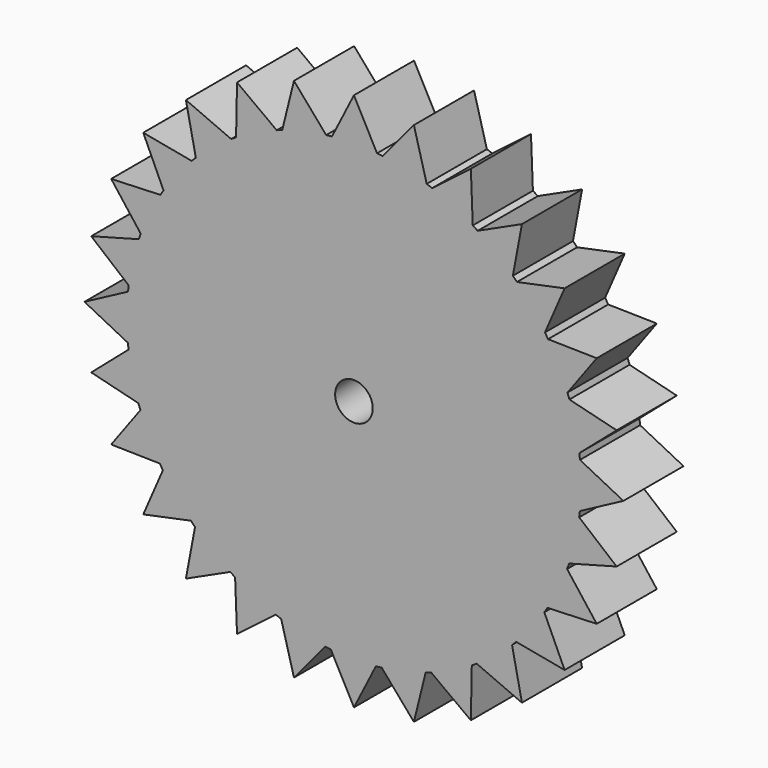
from build123d import *

# Parameters (mm, degrees)
F1_DEPTH = 12.7
F2_R     = 3.175
F3_DEPTH = 25.4


with BuildPart() as f1:
    # F0 (on Front) → F1 (new body)
    with BuildSketch(Plane.XZ):
        with BuildLine():
            ThreePointArc((38.16472, -3.90239), (38.313933, -1.95373), (38.363714, 0))
            ThreePointArc((38.363714, 0), (38.318696, 1.85798), (38.183747, 3.7116))
            ThreePointArc((38.183747, 3.7116), (38.133106, 4.200094), (38.076215, 4.6879))
            ThreePointArc((38.076215, 4.6879), (37.423071, 8.443238), (36.400492, 12.115225))
            ThreePointArc((36.400492, 12.115225), (36.24242, 12.580203), (36.078408, 13.04312))
            ThreePointArc((36.078408, 13.04312), (34.606, 16.558965), (32.791965, 19.911343))
            ThreePointArc((32.791965, 19.911343), (32.534388, 20.329489), (32.27148, 20.744303))
            ThreePointArc((32.27148, 20.744303), (30.053638, 23.844357), (27.539111, 26.709023))
            ThreePointArc((27.539111, 26.709023), (27.194947, 27.059368), (26.846325, 27.40528))
            ThreePointArc((26.846325, 27.40528), (23.994262, 29.934093), (20.905332, 32.1674))
            ThreePointArc((20.905332, 32.1674), (20.491837, 32.432378), (20.074983, 32.692041))
            ThreePointArc((20.074983, 32.692041), (16.731714, 34.522808), (13.223271, 36.01277))
            ThreePointArc((13.223271, 36.01277), (12.76118, 36.179094), (12.296998, 36.339488))
            ThreePointArc((12.296998, 36.339488), (8.630167, 37.380406), (4.878141, 38.05231))
            ThreePointArc((4.878141, 38.05231), (4.390625, 38.111638), (3.90239, 38.16472))
            ThreePointArc((3.90239, 38.16472), (0.095868, 38.363594), (-3.7116, 38.183747))
            ThreePointArc((-3.7116, 38.183747), (-4.200094, 38.133106), (-4.6879, 38.076215))
            ThreePointArc((-4.6879, 38.076215), (-8.443238, 37.423071), (-12.115225, 36.400492))
            ThreePointArc((-12.115225, 36.400492), (-12.580203, 36.24242), (-13.04312, 36.078408))
            ThreePointArc((-13.04312, 36.078408), (-16.558965, 34.606), (-19.911343, 32.791965))
            ThreePointArc((-19.911343, 32.791965), (-20.329489, 32.534388), (-20.744303, 32.27148))
            ThreePointArc((-20.744303, 32.27148), (-23.844357, 30.053638), (-26.709023, 27.539111))
            ThreePointArc((-26.709023, 27.539111), (-27.059368, 27.194947), (-27.40528, 26.846325))
            ThreePointArc((-27.40528, 26.846325), (-29.934093, 23.994262), (-32.1674, 20.905332))
            ThreePointArc((-32.1674, 20.905332), (-32.432378, 20.491837), (-32.692041, 20.074983))
            ThreePointArc((-32.692041, 20.074983), (-34.522808, 16.731714), (-36.01277, 13.223271))
            ThreePointArc((-36.01277, 13.223271), (-36.179094, 12.76118), (-36.339488, 12.296998))
            ThreePointArc((-36.339488, 12.296998), (-37.380406, 8.630167), (-38.05231, 4.878141))
            ThreePointArc((-38.05231, 4.878141), (-38.111638, 4.390625), (-38.16472, 3.90239))
            ThreePointArc((-38.16472, 3.90239), (-38.363594, 0.095868), (-38.183747, -3.7116))
            ThreePointArc((-38.183747, -3.7116), (-38.133106, -4.200094), (-38.076215, -4.6879))
            ThreePointArc((-38.076215, -4.6879), (-37.423071, -8.443238), (-36.400492, -12.115225))
            ThreePointArc((-36.400492, -12.115225), (-36.24242, -12.580203), (-36.078408, -13.04312))
            ThreePointArc((-36.078408, -13.04312), (-34.606, -16.558965), (-32.791965, -19.911343))
            ThreePointArc((-32.791965, -19.911343), (-32.534388, -20.329489), (-32.27148, -20.744303))
            ThreePointArc((-32.27148, -20.744303), (-30.053638, -23.844357), (-27.539111, -26.709023))
            ThreePointArc((-27.539111, -26.709023), (-27.194947, -27.059368), (-26.846325, -27.40528))
            ThreePointArc((-26.846325, -27.40528), (-23.994262, -29.934093), (-20.905332, -32.1674))
            ThreePointArc((-20.905332, -32.1674), (-20.491837, -32.432378), (-20.074983, -32.692041))
            ThreePointArc((-20.074983, -32.692041), (-16.731714, -34.522808), (-13.223271, -36.01277))
            ThreePointArc((-13.223271, -36.01277), (-12.76118, -36.179094), (-12.296998, -36.339488))
            ThreePointArc((-12.296998, -36.339488), (-8.630167, -37.380406), (-4.878141, -38.05231))
            ThreePointArc((-4.878141, -38.05231), (-4.390625, -38.111638), (-3.90239, -38.16472))
            ThreePointArc((-3.90239, -38.16472), (-0.095868, -38.363594), (3.7116, -38.183747))
            ThreePointArc((3.7116, -38.183747), (4.200094, -38.133106), (4.6879, -38.076215))
            ThreePointArc((4.6879, -38.076215), (8.443238, -37.423071), (12.115225, -36.400492))
            ThreePointArc((12.115225, -36.400492), (12.580203, -36.24242), (13.04312, -36.078408))
            ThreePointArc((13.04312, -36.078408), (16.558965, -34.606), (19.911343, -32.791965))
            ThreePointArc((19.911343, -32.791965), (20.329489, -32.534388), (20.744303, -32.27148))
            ThreePointArc((20.744303, -32.27148), (23.844357, -30.053638), (26.709023, -27.539111))
            ThreePointArc((26.709023, -27.539111), (27.059368, -27.194947), (27.40528, -26.846325))
            ThreePointArc((27.40528, -26.846325), (29.934093, -23.994262), (32.1674, -20.905332))
            ThreePointArc((32.1674, -20.905332), (32.432378, -20.491837), (32.692041, -20.074983))
            ThreePointArc((32.692041, -20.074983), (34.522808, -16.731714), (36.01277, -13.223271))
            ThreePointArc((36.01277, -13.223271), (36.179094, -12.76118), (36.339488, -12.296998))
            ThreePointArc((36.339488, -12.296998), (37.380406, -8.630167), (38.05231, -4.878141))
            ThreePointArc((38.05231, -4.878141), (38.111638, -4.390625), (38.16472, -3.90239))
        make_face()
        with BuildLine():
            ThreePointArc((38.183747, 3.7116), (38.318696, 1.85798), (38.363714, 0))
            ThreePointArc((38.363714, 0), (38.313933, -1.95373), (38.16472, -3.90239))
            Line((38.16472, -3.90239), (45.522928, 0))
            Line((45.522928, 0), (38.183747, 3.7116))
        make_face()
        with BuildLine():
            ThreePointArc((36.400492, 12.115225), (37.423071, 8.443238), (38.076215, 4.6879))
            Line((38.076215, 4.6879), (44.381573, 10.129805))
            Line((44.381573, 10.129805), (36.400492, 12.115225))
        make_face()
        with BuildLine():
            Line((44.381573, -10.129805), (38.05231, -4.878141))
            ThreePointArc((38.05231, -4.878141), (37.380406, -8.630167), (36.339488, -12.296998))
            Line((36.339488, -12.296998), (44.381573, -10.129805))
        make_face()
        with BuildLine():
            ThreePointArc((32.791965, 19.911343), (34.606, 16.558965), (36.078408, 13.04312))
            Line((36.078408, 13.04312), (41.014741, 19.751658))
            Line((41.014741, 19.751658), (32.791965, 19.911343))
        make_face()
        with BuildLine():
            Line((41.014741, -19.751658), (36.01277, -13.223271))
            ThreePointArc((36.01277, -13.223271), (34.522808, -16.731714), (32.692041, -20.074983))
            Line((32.692041, -20.074983), (41.014741, -19.751658))
        make_face()
        with BuildLine():
            ThreePointArc((27.539111, 26.709023), (30.053638, 23.844357), (32.27148, 20.744303))
            Line((32.27148, 20.744303), (35.591258, 28.383082))
            Line((35.591258, 28.383082), (27.539111, 26.709023))
        make_face()
        with BuildLine():
            Line((35.591258, -28.383082), (32.1674, -20.905332))
            ThreePointArc((32.1674, -20.905332), (29.934093, -23.994262), (27.40528, -26.846325))
            Line((27.40528, -26.846325), (35.591258, -28.383082))
        make_face()
        with BuildLine():
            ThreePointArc((20.905332, 32.1674), (23.994262, 29.934093), (26.846325, 27.40528))
            Line((26.846325, 27.40528), (28.383082, 35.591258))
            Line((28.383082, 35.591258), (20.905332, 32.1674))
        make_face()
        with BuildLine():
            Line((28.383082, -35.591258), (26.709023, -27.539111))
            ThreePointArc((26.709023, -27.539111), (23.844357, -30.053638), (20.744303, -32.27148))
            Line((20.744303, -32.27148), (28.383082, -35.591258))
        make_face()
        with BuildLine():
            ThreePointArc((13.223271, 36.01277), (16.731714, 34.522808), (20.074983, 32.692041))
            Line((20.074983, 32.692041), (19.751658, 41.014741))
            Line((19.751658, 41.014741), (13.223271, 36.01277))
        make_face()
        with BuildLine():
            Line((19.751658, -41.014741), (19.911343, -32.791965))
            ThreePointArc((19.911343, -32.791965), (16.558965, -34.606), (13.04312, -36.078408))
            Line((13.04312, -36.078408), (19.751658, -41.014741))
        make_face()
        with BuildLine():
            ThreePointArc((4.878141, 38.05231), (8.630167, 37.380406), (12.296998, 36.339488))
            Line((12.296998, 36.339488), (10.129805, 44.381573))
            Line((10.129805, 44.381573), (4.878141, 38.05231))
        make_face()
        with BuildLine():
            Line((10.129805, -44.381573), (12.115225, -36.400492))
            ThreePointArc((12.115225, -36.400492), (8.443238, -37.423071), (4.6879, -38.076215))
            Line((4.6879, -38.076215), (10.129805, -44.381573))
        make_face()
        with BuildLine():
            ThreePointArc((-3.7116, 38.183747), (0.095868, 38.363594), (3.90239, 38.16472))
            Line((3.90239, 38.16472), (0, 45.522928))
            Line((0, 45.522928), (-3.7116, 38.183747))
        make_face()
        with BuildLine():
            Line((0, -45.522928), (3.7116, -38.183747))
            ThreePointArc((3.7116, -38.183747), (-0.095868, -38.363594), (-3.90239, -38.16472))
            Line((-3.90239, -38.16472), (0, -45.522928))
        make_face()
        with BuildLine():
            ThreePointArc((-12.115225, 36.400492), (-8.443238, 37.423071), (-4.6879, 38.076215))
            Line((-4.6879, 38.076215), (-10.129805, 44.381573))
            Line((-10.129805, 44.381573), (-12.115225, 36.400492))
        make_face()
        with BuildLine():
            Line((-10.129805, -44.381573), (-4.878141, -38.05231))
            ThreePointArc((-4.878141, -38.05231), (-8.630167, -37.380406), (-12.296998, -36.339488))
            Line((-12.296998, -36.339488), (-10.129805, -44.381573))
        make_face()
        with BuildLine():
            ThreePointArc((-19.911343, 32.791965), (-16.558965, 34.606), (-13.04312, 36.078408))
            Line((-13.04312, 36.078408), (-19.751658, 41.014741))
            Line((-19.751658, 41.014741), (-19.911343, 32.791965))
        make_face()
        with BuildLine():
            Line((-19.751658, -41.014741), (-13.223271, -36.01277))
            ThreePointArc((-13.223271, -36.01277), (-16.731714, -34.522808), (-20.074983, -32.692041))
            Line((-20.074983, -32.692041), (-19.751658, -41.014741))
        make_face()
        with BuildLine():
            ThreePointArc((-26.709023, 27.539111), (-23.844357, 30.053638), (-20.744303, 32.27148))
            Line((-20.744303, 32.27148), (-28.383082, 35.591258))
            Line((-28.383082, 35.591258), (-26.709023, 27.539111))
        make_face()
        with BuildLine():
            Line((-28.383082, -35.591258), (-20.905332, -32.1674))
            ThreePointArc((-20.905332, -32.1674), (-23.994262, -29.934093), (-26.846325, -27.40528))
            Line((-26.846325, -27.40528), (-28.383082, -35.591258))
        make_face()
        with BuildLine():
            ThreePointArc((-32.1674, 20.905332), (-29.934093, 23.994262), (-27.40528, 26.846325))
            Line((-27.40528, 26.846325), (-35.591258, 28.383082))
            Line((-35.591258, 28.383082), (-32.1674, 20.905332))
        make_face()
        with BuildLine():
            Line((-35.591258, -28.383082), (-27.539111, -26.709023))
            ThreePointArc((-27.539111, -26.709023), (-30.053638, -23.844357), (-32.27148, -20.744303))
            Line((-32.27148, -20.744303), (-35.591258, -28.383082))
        make_face()
        with BuildLine():
            ThreePointArc((-36.01277, 13.223271), (-34.522808, 16.731714), (-32.692041, 20.074983))
            Line((-32.692041, 20.074983), (-41.014741, 19.751658))
            Line((-41.014741, 19.751658), (-36.01277, 13.223271))
        make_face()
        with BuildLine():
            Line((-41.014741, -19.751658), (-32.791965, -19.911343))
            ThreePointArc((-32.791965, -19.911343), (-34.606, -16.558965), (-36.078408, -13.04312))
            Line((-36.078408, -13.04312), (-41.014741, -19.751658))
        make_face()
        with BuildLine():
            ThreePointArc((-38.05231, 4.878141), (-37.380406, 8.630167), (-36.339488, 12.296998))
            Line((-36.339488, 12.296998), (-44.381573, 10.129805))
            Line((-44.381573, 10.129805), (-38.05231, 4.878141))
        make_face()
        with BuildLine():
            Line((-44.381573, -10.129805), (-36.400492, -12.115225))
            ThreePointArc((-36.400492, -12.115225), (-37.423071, -8.443238), (-38.076215, -4.6879))
            Line((-38.076215, -4.6879), (-44.381573, -10.129805))
        make_face()
        with BuildLine():
            ThreePointArc((-38.183747, -3.7116), (-38.363594, 0.095868), (-38.16472, 3.90239))
            Line((-38.16472, 3.90239), (-45.522928, 0))
            Line((-45.522928, 0), (-38.183747, -3.7116))
        make_face()
    extrude(amount=F1_DEPTH)

    # F2 (on face) → F3 (cut)
    with BuildSketch(Plane.XZ.offset(12.7)):
        Circle(F2_R)
    extrude(amount=-F3_DEPTH, mode=Mode.SUBTRACT)


solid = f1.part
